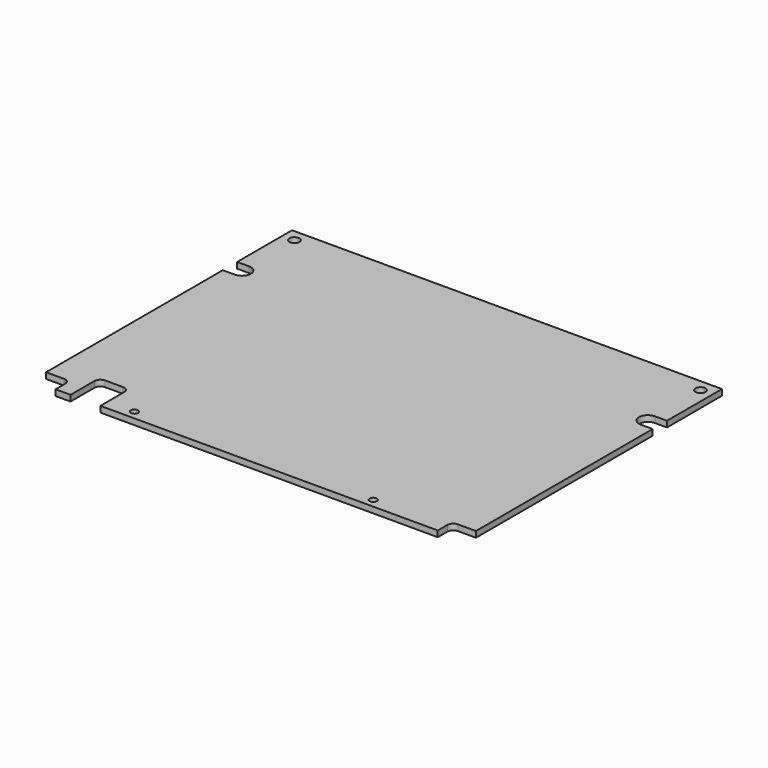
from build123d import *

# Parameters (mm, degrees)
F1_DEPTH = 3.175
F2_D     = 3.8395348837
F3_D     = 5.3258064516
F4_R     = 3.175


with BuildPart() as f1:
    # F0 (on Top) → F1 (new body)
    with BuildSketch(Plane.XY):
        with BuildLine():
            Line((12.7, 9.525), (12.7, 0))
            Line((12.7, 0), (20.6375, 0))
            Line((20.6375, 0), (20.6375, 19.05))
            Line((20.6375, 19.05), (36.5125, 19.05))
            Line((36.5125, 19.05), (36.5125, 0))
            Line((36.5125, 0), (215.9, 0))
            Line((215.9, 0), (215.9, 9.525))
            Line((215.9, 9.525), (228.6, 9.525))
            Line((228.6, 9.525), (228.6, 127))
            Line((228.6, 127), (222.25, 127))
            ThreePointArc((222.25, 127), (217.4875, 131.7625), (222.25, 136.525))
            Line((222.25, 136.525), (228.6, 136.525))
            Line((228.6, 136.525), (228.6, 173.0375))
            Line((228.6, 173.0375), (0, 173.0375))
            Line((0, 173.0375), (0, 136.525))
            Line((0, 136.525), (6.35, 136.525))
            ThreePointArc((6.35, 136.525), (11.1125, 131.7625), (6.35, 127))
            Line((6.35, 127), (0, 127))
            Line((0, 127), (0, 9.525))
            Line((0, 9.525), (12.7, 9.525))
        make_face()
    extrude(amount=F1_DEPTH)

    # F2 (through all)
    with Locations(Plane(origin=(0, 0, 0), x_dir=(1, 0, 0), z_dir=(0, 0, -1))):
        with Locations((50.8, -4.7625), (177.8, -4.7625)):
            Hole(F2_D / 2)

    # F3 (through all)
    with Locations(Plane(origin=(0, 0, 0), x_dir=(1, 0, 0), z_dir=(0, 0, -1))):
        with Locations((6.35, -166.6875), (222.25, -166.6875)):
            Hole(F3_D / 2)

    # F4
    f4_edges = [f1.edges().sort_by_distance(p)[0] for p in [
        (215.9, 9.525, 1.5875),
        (12.7, 9.525, 1.5875),
        (36.5125, 19.05, 1.5875),
        (20.6375, 19.05, 1.5875),
    ]]
    fillet(f4_edges, radius=F4_R)


solid = f1.part
